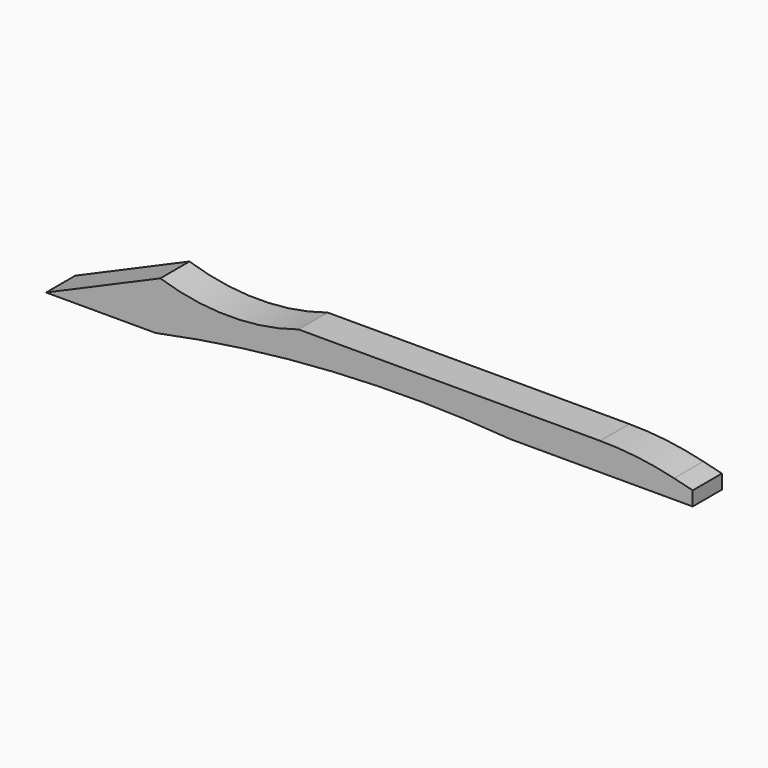
from build123d import *

# Parameters (mm, degrees)
F1_DEPTH = 3.175


with BuildPart() as f1:
    # F0 (on Front) → F1 (new body)
    with BuildSketch(Plane.XZ):
        with BuildLine():
            Line((-54.590016, 4.31501), (-64.523153, 0))
            Line((-64.523153, 0), (-54.998153, 0))
            ThreePointArc((-54.998153, 0), (-39.639043, 2.043696), (-24.145191, 1.904107))
            Line((-24.145191, 1.904107), (-8.270191, 1.904107))
            Line((-8.270191, 1.904107), (-8.270191, 3.142171))
            Line((-8.270191, 3.142171), (-9.890389, 3.538603))
            ThreePointArc((-9.890389, 3.538603), (-13.087017, 4.120208), (-16.330278, 4.31501))
            Line((-16.330278, 4.31501), (-42.56383, 4.31501))
            ThreePointArc((-42.56383, 4.31501), (-48.576923, 3.362717), (-54.590016, 4.31501))
        make_face()
    extrude(amount=F1_DEPTH)


solid = f1.part
